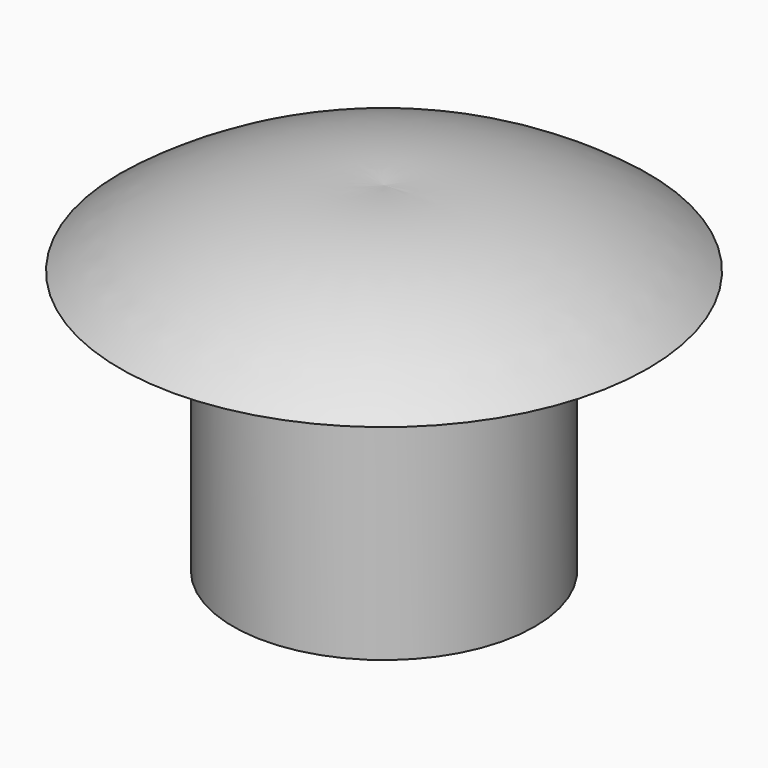
from build123d import *

# Parameters (mm, degrees)
F2_R     = 2
F3_DEPTH = 3.5


with BuildPart() as f1:
    # F0 (on Front) → F1 (revolve)
    with BuildSketch(Plane.XZ):
        with BuildLine():
            Line((0, 1), (0, 0))
            Line((0, 0), (3.5, 0))
            ThreePointArc((3.5, 0), (1.844234, 0.829818), (0, 1))
        make_face()
    revolve(axis=Axis((0, 0, 0.5), (0, 0, 1)))

    # F2 (on face) → F3 (join)
    with BuildSketch(Plane(origin=(0, 0, 0), x_dir=(1, 0, 0), z_dir=(0, 0, -1))):
        Circle(F2_R)
    extrude(amount=F3_DEPTH)


solid = f1.part
